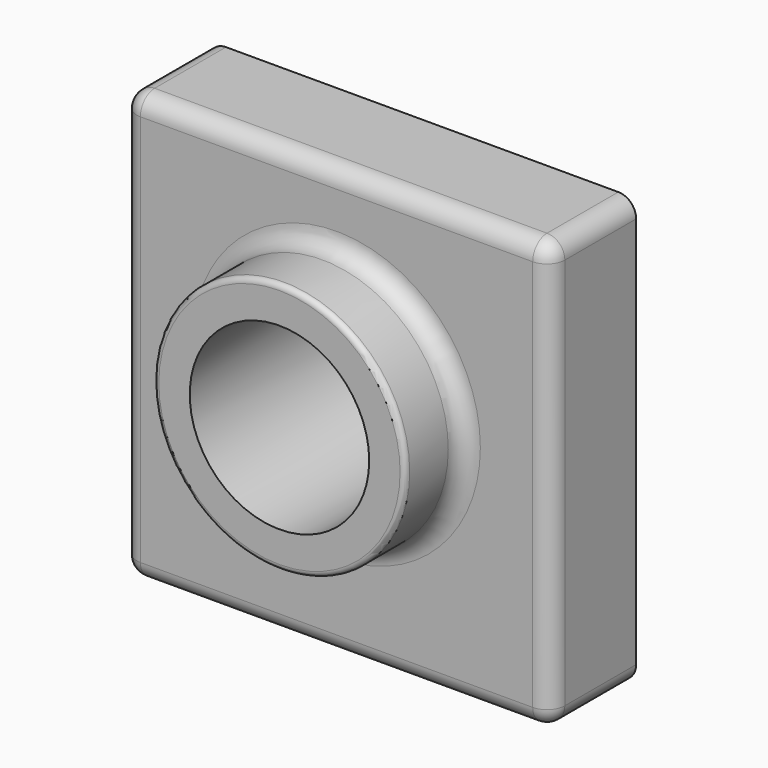
from build123d import *

# Parameters (mm, degrees)
F0_W     = 120
F0_H     = 120
F1_DEPTH = 30
F2_R     = 35.3192378902
F3_DEPTH = 20
F4_R     = 25.158067948
F5_DEPTH = 106.934
F6_R     = 5
F7_R     = 1.5
F8_T     = -3


with BuildPart() as f1:
    # F0 (on Front) → F1 (new body)
    with BuildSketch(Plane.XZ):
        with Locations((29.2758518457, -4.3157362938)):
            Rectangle(F0_W, F0_H)
    extrude(amount=F1_DEPTH)

    # F2 (on face) → F3 (join)
    with BuildSketch(Plane.XZ.offset(30)):
        with Locations((29.2758518457, 0)):
            Circle(F2_R)
    extrude(amount=F3_DEPTH)

    # F4 (on face) → F5 (cut)
    with BuildSketch(Plane.XZ.offset(50)):
        with Locations((29.2758518457, 0)):
            Circle(F4_R)
    extrude(amount=-F5_DEPTH, mode=Mode.SUBTRACT)

    # F6
    f6_edges = [f1.edges().sort_by_distance(p)[0] for p in [
        (29.275852, -30, -64.315736),
        (-30.724148, -30, -4.315736),
        (89.275852, -30, -4.315736),
        (29.275852, -30, 55.684264),
        (-6.043386, -30, 0),
        (-30.724148, -15, 55.684264),
        (89.275852, -15, 55.684264),
        (89.275852, -15, -64.315736),
        (-30.724148, -15, -64.315736),
    ]]
    fillet(f6_edges, radius=F6_R)

    # F7
    f7_edges = [f1.edges().sort_by_distance(p)[0] for p in [
        (-6.043386, -50, 0),
    ]]
    fillet(f7_edges, radius=F7_R)

    # F8
    f8_openings = [f1.faces().sort_by_distance(p)[0] for p in [
        (29.275852, 0, -62.61868),
    ]]
    offset(amount=F8_T, openings=f8_openings)


solid = f1.part
